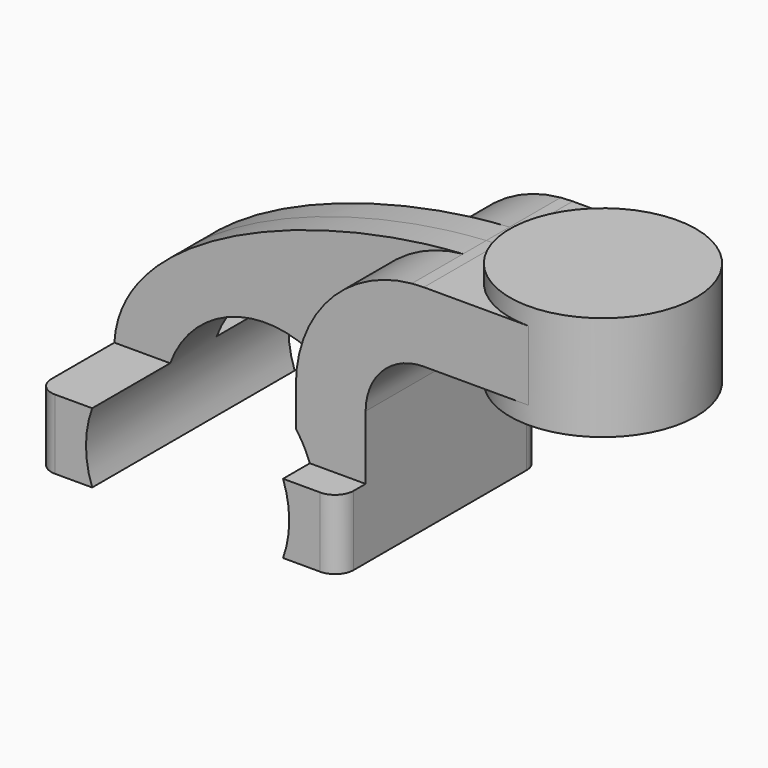
from build123d import *

# Parameters (mm, degrees)
F1_DEPTH = 34.544
F0_W     = 25.4
F0_H     = 19.05
F2_DEPTH = 25.4
F3_DEPTH = 7.9375
F5_R     = 5.08
F6_R     = 27.7340235674
F7_DEPTH = 46.228


with BuildPart() as f1:
    # F0 (on Front) → F1 (new body, symmetric)
    with BuildSketch(Plane.XZ):
        Polygon((22.225, 9.525), (-41.275, 9.525), (-41.275, -9.525), (41.275, -9.525), (41.275, 9.525), align=None)
    extrude(amount=F1_DEPTH, both=True)

    # F0 (on Front) → F2 (join, symmetric)
    with BuildSketch(Plane.XZ):
        with BuildLine():
            Line((22.225, 27.0002), (22.225, 9.525))
            Line((22.225, 9.525), (41.275, 9.525))
            Line((41.275, 9.525), (41.275, 27.0002))
            ThreePointArc((41.275, 27.0002), (45.9246798487, 38.2255201513), (57.15, 42.8752))
            Line((57.15, 42.8752), (60.325, 42.8752))
            Line((60.325, 42.8752), (60.325, 61.9252))
            Line((60.325, 61.9252), (57.15, 61.9252))
            add(Edge.make_bspline(
                [(53.8854342407, 61.7722898912), (54.9842067368, 61.8365871986), (56.0728453275, 61.8876096574), (57.15, 61.9252)],
                knots=[108.5245810491, 108.5245810491, 108.5245810491, 108.5245810491, 111.5045361635, 111.5045361635, 111.5045361635, 111.5045361635], degree=3))
            ThreePointArc((53.8854342407, 61.7722898912), (31.3258777096, 50.5133948686), (22.225, 27.0002))
        make_face()
        with Locations((73.025, 52.4002)):
            Rectangle(F0_W, F0_H)
    extrude(amount=F2_DEPTH, both=True)

    # F0 (on Front) → F3 (join, symmetric)
    with BuildSketch(Plane.XZ):
        with BuildLine():
            add(Edge.make_bspline(
                [(-41.275, 9.525), (-39.5856284224, 39.4828766469), (13.870125209, 59.4306981306), (53.8854342407, 61.7722898912)],
                knots=[0, 0, 0, 0, 108.5245810491, 108.5245810491, 108.5245810491, 108.5245810491], degree=3))
            Line((-41.275, 9.525), (22.225, 9.525))
            Line((22.225, 9.525), (22.225, 27.0002))
            ThreePointArc((22.225, 27.0002), (31.3258777096, 50.5133948686), (53.8854342407, 61.7722898912))
        make_face()
    extrude(amount=F3_DEPTH, both=True)

    # F0 (on Front) → F4 (revolve)
    with BuildSketch(Plane.XZ):
        Polygon((85.725, 66.675), (85.725, 61.9252), (85.725, 42.8752), (85.725, 38.1), (111.125, 38.1), (111.125, 66.675), align=None)
    revolve(axis=Axis((85.725, 0, 52.3875), (0, 0, 1)))

    # F5
    f5_edges = [f1.edges().sort_by_distance(p)[0] for p in [
        (41.275, -34.544, 0),
        (-41.275, -34.544, 0),
        (41.275, 34.544, 0),
        (-41.275, 34.544, 0),
    ]]
    fillet(f5_edges, radius=F5_R)

    # F6 (on face) → F7 (cut, symmetric)
    with BuildSketch(Plane.XZ.offset(7.9375)):
        Circle(F6_R)
    extrude(amount=F7_DEPTH, both=True, mode=Mode.SUBTRACT)


solid = f1.part
